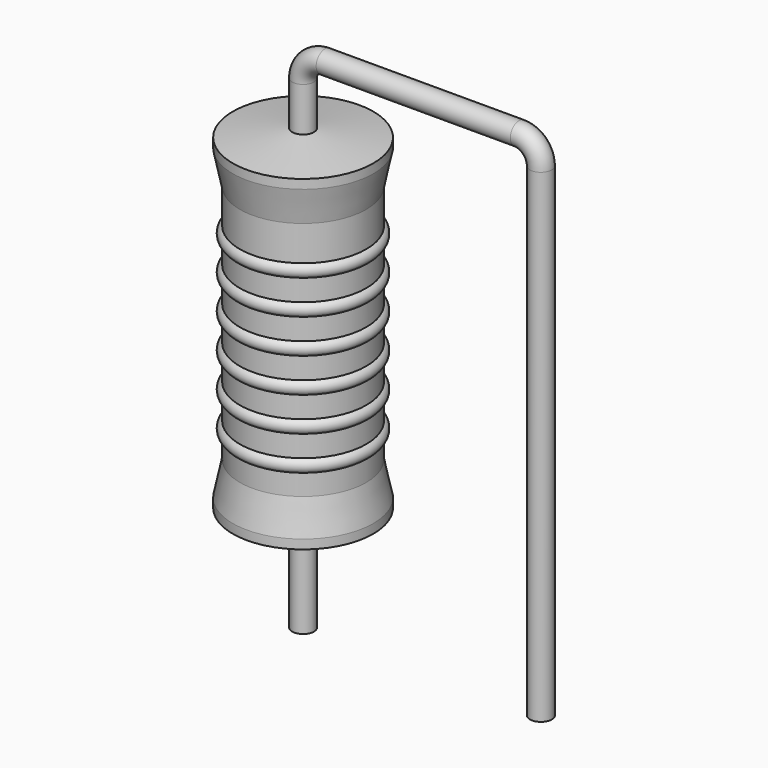
from build123d import *

# Parameters (mm, degrees)
SKETCH_R = 0.35


with BuildPart() as sweep_body:
    # Sweep: sweep along a path in Sketch001
    with BuildLine(Plane.XZ) as sweep_path:
        Line((0, -3), (0, 12.5))
        ThreePointArc((0, 12.5), (0.205022, 12.994972), (0.699992, 13.2))
        Line((0.699992, 13.2), (6.92, 13.2))
        ThreePointArc((6.92, 13.2), (7.414975, 12.994975), (7.62, 12.5))
        Line((7.62, 12.5), (7.62, -3))
    # Sketch → Sweep (sweep)
    with BuildSketch(Plane.XY.offset(-2)):
        Circle(SKETCH_R)
    sweep(path=sweep_path.line)


with BuildPart() as revolution:
    # Sketch002 → Revolution (revolve)
    with BuildSketch(Plane.XZ):
        Polygon((0, 0.1), (0, 11.1), (0.2625, 11.1), (2.25, 10.825), (2.25, 10.5325), (2.025, 9.45), (2.025, 1.75), (2.25, 0.6675), (2.25, 0.375), (0.2625, 0.1), align=None)
    revolve(axis=Axis((0, 0, 0), (0, 0, 1)))


with BuildPart() as revolution001:
    # Sketch003 → Revolution001 (revolve)
    with BuildSketch(Plane.XZ):
        with BuildLine():
            Line((1.8, 9), (1.8, 1.75))
            Line((1.8, 1.75), (1.935, 1.75))
            Line((1.935, 1.75), (1.935, 2.4))
            ThreePointArc((1.935, 2.4), (2.16, 2.625), (1.935, 2.85))
            Line((1.935, 2.85), (1.935, 3.5))
            ThreePointArc((1.935, 3.5), (2.16, 3.725), (1.935, 3.95))
            Line((1.935, 3.95), (1.935, 4.6))
            ThreePointArc((1.935, 4.6), (2.16, 4.825), (1.935, 5.05))
            Line((1.935, 5.05), (1.935, 5.7))
            ThreePointArc((1.935, 5.7), (2.16, 5.925), (1.935, 6.15))
            Line((1.935, 6.15), (1.935, 6.8))
            ThreePointArc((1.935, 6.8), (2.16, 7.025), (1.935, 7.25))
            Line((1.935, 7.25), (1.935, 7.9))
            ThreePointArc((1.935, 7.9), (2.16, 8.125), (1.935, 8.35))
            Line((1.935, 9), (1.935, 8.35))
            Line((1.8, 9), (1.935, 9))
        make_face()
    revolve(axis=Axis((0, 0, 0), (0, 0, 1)))


solid = Compound([sweep_body.part, revolution.part, revolution001.part])
